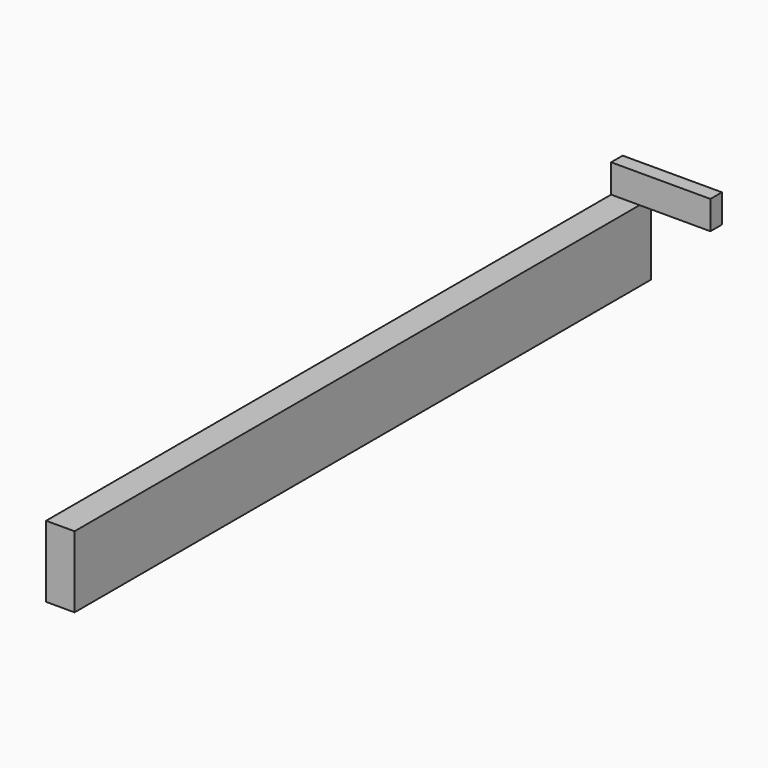
from build123d import *

# Parameters (mm, degrees)
F1_DEPTH = 1270
F2_DEPTH = 25.4


with BuildPart() as f1:
    # F0 (on Front) → F1 (new body)
    with BuildSketch(Plane.XZ):
        Polygon((0, 125.871986), (0, 0), (50.215721, 0), (50.215721, 64.304269), (50.215721, 125.871986), align=None)
    extrude(amount=F1_DEPTH)

    # F0 (on Front) → F2 (join)
    with BuildSketch(Plane.XZ):
        Polygon((0, 176.087707), (0, 125.871986), (50.215721, 125.871986), (174.965158, 125.871986), (174.965158, 176.087707), align=None)
    extrude(amount=F2_DEPTH)


solid = f1.part
